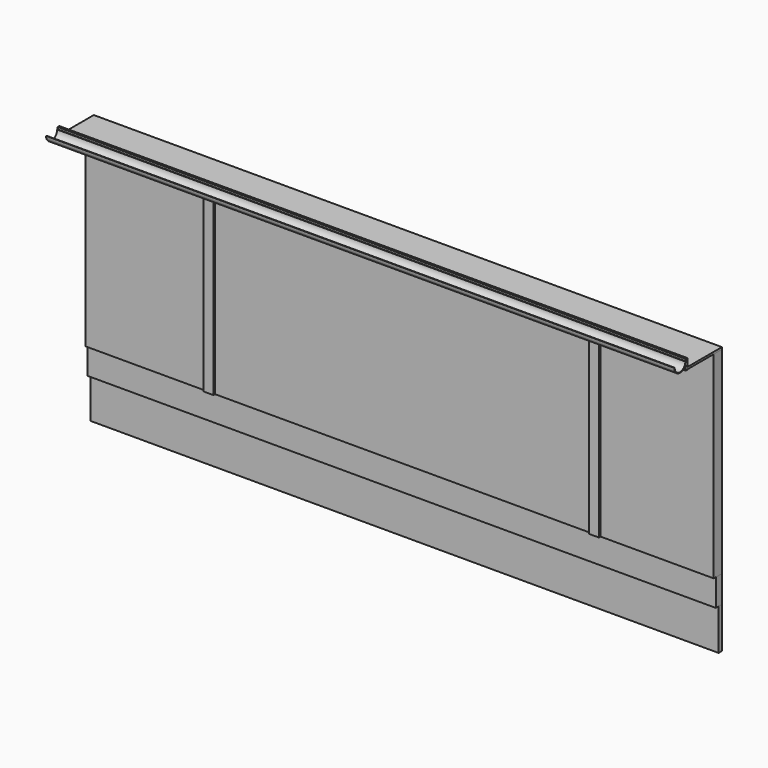
from build123d import *

# Parameters (mm, degrees)
F0_W     = 6110
F0_H     = 1920
F1_DEPTH = 100
F2_W     = 95
F2_H     = 20
F3_DEPTH = 1920
F5_DEPTH = 6110
F6_W     = 6110
F6_H     = 75
F7_DEPTH = 263
F8_W     = 6110
F8_H     = 40
F9_DEPTH = 400


with BuildPart() as f1:
    # F0 (on Front) → F1 (new body)
    with BuildSketch(Plane.XZ):
        with Locations((-3055, 960)):
            Rectangle(F0_W, F0_H)
    extrude(amount=F1_DEPTH)

    # F2 (on face) → F3 (join, through all)
    with BuildSketch(Plane(origin=(0, 0, 0), x_dir=(1, 0, 0), z_dir=(0, 0, -1))):
        with Locations((-4897.5, 110)):
            Rectangle(F2_W, F2_H)
        with Locations((-1147.5, 110)):
            Rectangle(F2_W, F2_H)
    extrude(amount=-F3_DEPTH)


with BuildPart() as f5:
    # F4 (on face) → F5 (new body, through all)
    with BuildSketch(Plane(origin=(-6110, 0, 0), x_dir=(0, -1, 0), z_dir=(-1, 0, 0))):
        Polygon((0, 1940), (0, 1920), (100, 1920), (420, 1920), (420, 1940), align=None)
        Polygon((420, 1940), (420, 1920), (420, 1917), (440, 1917), (440, 1977), (440, 1997), (440, 2017), (420, 2017), align=None)
        with BuildLine():
            Line((440, 1997), (440, 1977))
            Line((440, 1977), (442.917960675, 1977))
            ThreePointArc((442.917960675, 1977), (520.1058707505, 1927.7333314185), (580, 1997))
            Line((580, 1997), (575, 1997))
            ThreePointArc((575, 1997), (510, 1932), (445, 1997))
            Line((445, 1997), (440, 1997))
        make_face()
    extrude(amount=-F5_DEPTH)


with BuildPart() as f7:
    # F6 (on face) → F7 (new body)
    with BuildSketch(Plane(origin=(0, 0, 0), x_dir=(1, 0, 0), z_dir=(0, 0, -1))):
        with Locations((-3055, 37.5)):
            Rectangle(F6_W, F6_H)
    extrude(amount=F7_DEPTH)


with BuildPart() as f9:
    # F8 (on face) → F9 (new body)
    with BuildSketch(Plane(origin=(0, 0, -263), x_dir=(1, 0, 0), z_dir=(0, 0, -1))):
        with Locations((-3055, 20)):
            Rectangle(F8_W, F8_H)
    extrude(amount=F9_DEPTH)


solid = Compound([f1.part, f5.part, f7.part, f9.part])
